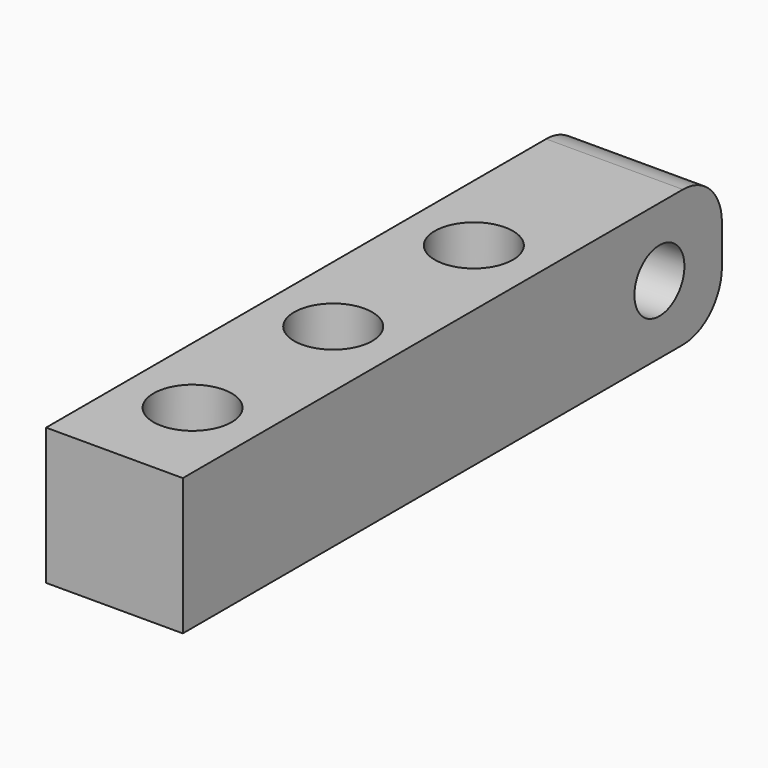
from build123d import *

# Parameters (mm, degrees)
F0_W     = 14
F0_H     = 69
F0_R     = 4
F1_DEPTH = 14
F2_R     = 3.2
F3_DEPTH = 14.001
F4_DEPTH = 6
F5_R     = 5


with BuildPart() as f1:
    # F0 (on Top) → F1 (new body)
    with BuildSketch(Plane.XY):
        with Locations((7, 34.5)):
            Rectangle(F0_W, F0_H)
        with Locations((7, 10)):
            Circle(F0_R, mode=Mode.SUBTRACT)
        with Locations((7, 28)):
            Circle(F0_R, mode=Mode.SUBTRACT)
        with Locations((7, 46)):
            Circle(F0_R, mode=Mode.SUBTRACT)
    extrude(amount=F1_DEPTH)

    # F2 (on face) → F3 (cut, through all)
    with BuildSketch(Plane(origin=(0, 0, 0), x_dir=(0, -1, 0), z_dir=(-1, 0, 0))):
        with Locations((-61, 7)):
            Circle(F2_R)
    extrude(amount=-F3_DEPTH, mode=Mode.SUBTRACT)

    # F2 (on face) → F4 (cut)
    with BuildSketch(Plane(origin=(0, 0, 0), x_dir=(0, -1, 0), z_dir=(-1, 0, 0))):
        Polygon((-63.944486, 1.9), (-58.055514, 1.9), (-55.111027, 7), (-58.055514, 12.1), (-63.944486, 12.1), (-66.888973, 7), align=None)
        with Locations((-61, 7)):
            Circle(F2_R, mode=Mode.SUBTRACT)
    extrude(amount=-F4_DEPTH, mode=Mode.SUBTRACT)

    # F5
    f5_edges = [f1.edges().sort_by_distance(p)[0] for p in [
        (7, 69, 14),
        (7, 69, 0),
    ]]
    fillet(f5_edges, radius=F5_R)


solid = f1.part
